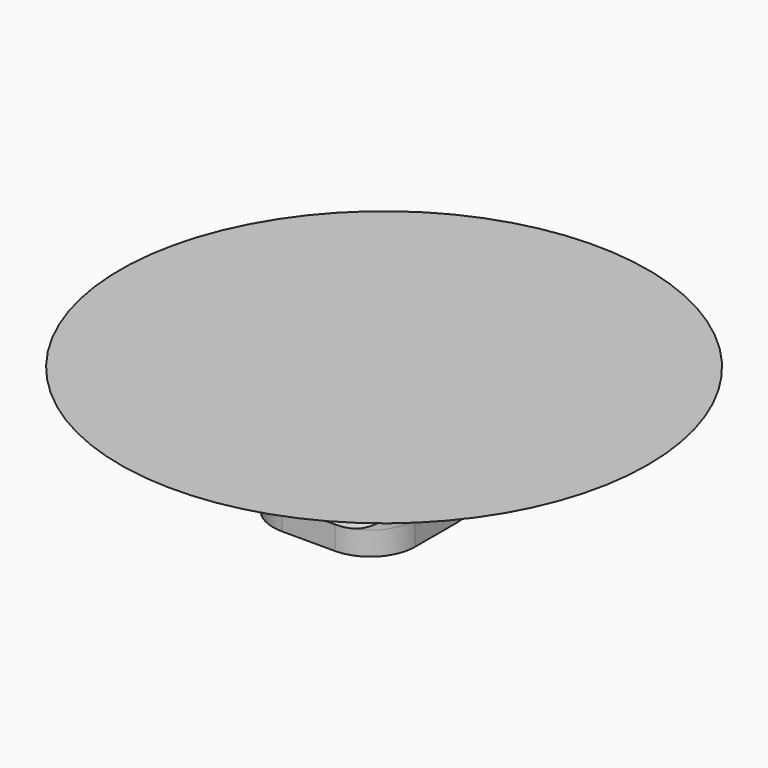
from build123d import *

# Parameters (mm, degrees)
PAD_DEPTH    = 10
PAD_TAPER    = -0.03
PAD001_DEPTH = 20
POCKET_DEPTH = 60.606236
SKETCH002_R  = 5.600293
PAD002_DEPTH = 39
PAD002_TAPER = -70


with BuildPart() as body:
    # Sketch → Pad (new body)
    with BuildSketch(Plane.XY):
        with BuildLine():
            ThreePointArc((-11.3, 30.3), (-24.735029, 24.735029), (-30.3, 11.3))
            Line((-30.3, -11.3), (-30.3, 11.3))
            ThreePointArc((-30.3, -11.3), (-24.735029, -24.735029), (-11.3, -30.3))
            Line((11.3, -30.3), (-11.3, -30.3))
            ThreePointArc((11.3, -30.3), (24.735029, -24.735029), (30.3, -11.3))
            Line((30.3, 11.3), (30.3, -11.3))
            ThreePointArc((30.3, 11.3), (24.735029, 24.735029), (11.3, 30.3))
            Line((-11.3, 30.3), (11.3, 30.3))
        make_face()
        with BuildLine():
            ThreePointArc((-16.16748, 27.049299), (-23.237666, 23.237666), (-27.049299, 16.16748))
            ThreePointArc((-27.049299, 16.16748), (-28.7, 0), (-27.049299, -16.16748))
            ThreePointArc((-27.049299, -16.16748), (-23.237666, -23.237666), (-16.16748, -27.049299))
            ThreePointArc((-16.16748, -27.049299), (0, -28.7), (16.16748, -27.049299))
            ThreePointArc((16.16748, -27.049299), (23.237666, -23.237666), (27.049299, -16.16748))
            ThreePointArc((27.049299, -16.16748), (28.7, 0), (27.049299, 16.16748))
            ThreePointArc((27.049299, 16.16748), (23.237666, 23.237666), (16.16748, 27.049299))
            ThreePointArc((16.16748, 27.049299), (0, 28.7), (-16.16748, 27.049299))
        make_face(mode=Mode.SUBTRACT)
    extrude(amount=-PAD_DEPTH, taper=PAD_TAPER)

    # Sketch → Pad001 (join)
    with BuildSketch(Plane.XY):
        with BuildLine():
            ThreePointArc((-11.3, 30.3), (-24.735029, 24.735029), (-30.3, 11.3))
            Line((-30.3, -11.3), (-30.3, 11.3))
            ThreePointArc((-30.3, -11.3), (-24.735029, -24.735029), (-11.3, -30.3))
            Line((11.3, -30.3), (-11.3, -30.3))
            ThreePointArc((11.3, -30.3), (24.735029, -24.735029), (30.3, -11.3))
            Line((30.3, 11.3), (30.3, -11.3))
            ThreePointArc((30.3, 11.3), (24.735029, 24.735029), (11.3, 30.3))
            Line((-11.3, 30.3), (11.3, 30.3))
        make_face()
        with BuildLine():
            ThreePointArc((-16.16748, 27.049299), (-23.237666, 23.237666), (-27.049299, 16.16748))
            ThreePointArc((-27.049299, 16.16748), (-28.7, 0), (-27.049299, -16.16748))
            ThreePointArc((-27.049299, -16.16748), (-23.237666, -23.237666), (-16.16748, -27.049299))
            ThreePointArc((-16.16748, -27.049299), (0, -28.7), (16.16748, -27.049299))
            ThreePointArc((16.16748, -27.049299), (23.237666, -23.237666), (27.049299, -16.16748))
            ThreePointArc((27.049299, -16.16748), (28.7, 0), (27.049299, 16.16748))
            ThreePointArc((27.049299, 16.16748), (23.237666, 23.237666), (16.16748, 27.049299))
            ThreePointArc((16.16748, 27.049299), (0, 28.7), (-16.16748, 27.049299))
        make_face(mode=Mode.SUBTRACT)
    extrude(amount=PAD001_DEPTH)

    # Sketch001 (on Face26 of Pad001) → Pocket (cut, through all)
    with BuildSketch(Plane.YZ.offset(30.3)):
        with BuildLine():
            Line((26.7, 20), (-30.3, 20))
            Line((-30.3, 20), (-30.3, 0))
            add(Edge.make_bspline(
                [(-15.202236, 5), (-24.200268, 5), (-25.999708, 0), (-30.3, 0)],
                knots=[0, 0, 0, 0, 1, 1, 1, 1], degree=3))
            Line((-15.202236, 5), (-0.871639, 5))
            add(Edge.make_bspline(
                [(26.7, 20), (25.897927, 20), (23.047305, 9.276816), (9.244787, 4.096733), (1.866701, 5), (-0.871639, 5)],
                knots=[0, 0, 0, 0, 0.333333, 0.666667, 1, 1, 1, 1], degree=3))
        make_face()
    extrude(amount=-POCKET_DEPTH, mode=Mode.SUBTRACT)


with BuildPart() as body001:
    # Sketch002 → Pad002 (new body)
    with BuildSketch(Plane.XY):
        with Locations((0, 10.077132)):
            Circle(SKETCH002_R)
    extrude(amount=PAD002_DEPTH, taper=PAD002_TAPER)


solid = Compound([body.part, body001.part])
